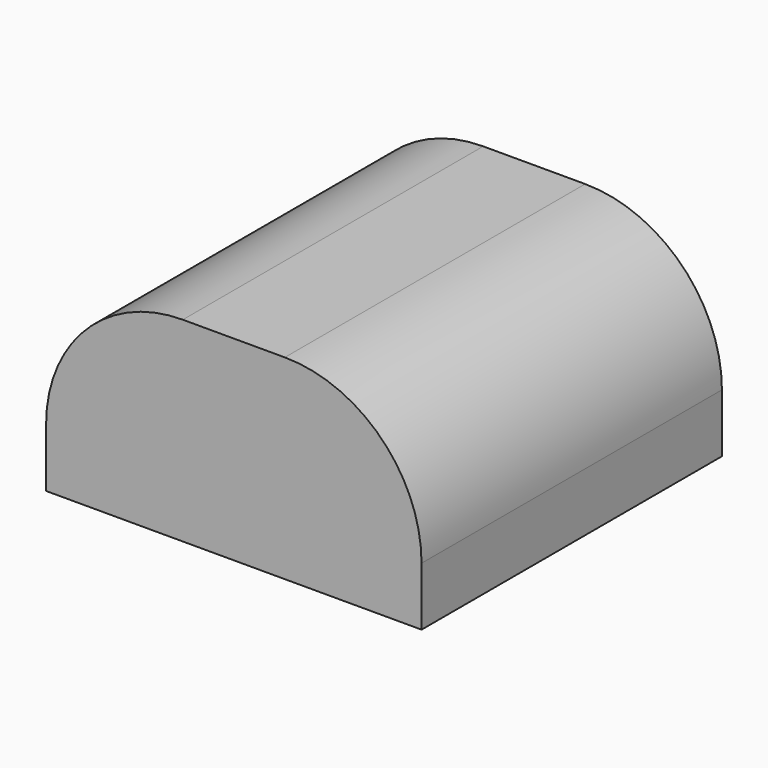
from build123d import *

# Parameters (mm, degrees)
F0_W     = 50
F0_H     = 50
F1_DEPTH = 26
F3_DEPTH = 50.001


with BuildPart() as f1:
    # F0 (on Top) → F1 (new body)
    with BuildSketch(Plane.XY):
        Rectangle(F0_W, F0_H)
    extrude(amount=F1_DEPTH)

    # F2 (on face) → F3 (cut, through all)
    with BuildSketch(Plane.XZ.offset(25)):
        with BuildLine():
            ThreePointArc((6.792214, 26), (19.667063, 20.667063), (25, 7.792214))
            Line((25, 7.792214), (25, 26))
            Line((25, 26), (6.792214, 26))
        make_face()
        with BuildLine():
            Line((-25, 26), (-25, 7.792214))
            ThreePointArc((-25, 7.792214), (-19.667063, 20.667063), (-6.792214, 26))
            Line((-6.792214, 26), (-25, 26))
        make_face()
    extrude(amount=-F3_DEPTH, mode=Mode.SUBTRACT)


solid = f1.part
